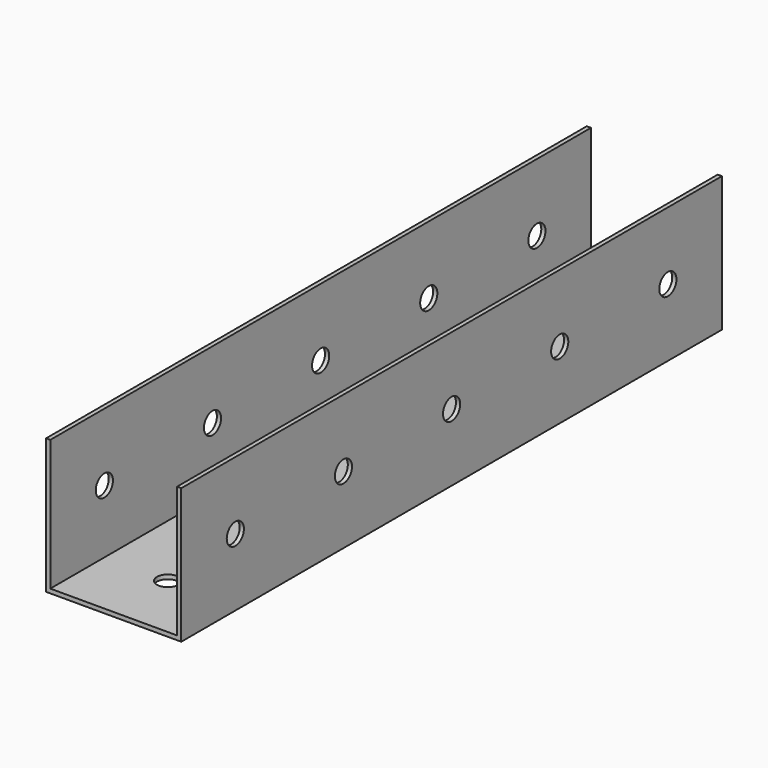
from build123d import *

# Parameters (mm, degrees)
F1_DEPTH = 160
F2_R     = 2.54
F3_DEPTH = 50.8
F4_R     = 2.54
F5_DEPTH = 25.4


with BuildPart() as f1:
    # F0 (on Front) → F1 (new body)
    with BuildSketch(Plane.XZ):
        Polygon((-15, 15.75), (-16, 15.75), (-16, -16.25), (16, -16.25), (16, 15.75), (15, 15.75), (15, -15.25), (-15, -15.25), align=None)
    extrude(amount=F1_DEPTH)

    # F2 (on face) → F3 (cut)
    with BuildSketch(Plane(origin=(-16, 0, 0), x_dir=(0, -1, 0), z_dir=(-1, 0, 0))):
        with Locations((16, -0.25)):
            Circle(F2_R)
        with Locations((48, -0.25)):
            Circle(F2_R)
        with Locations((80, -0.25)):
            Circle(F2_R)
        with Locations((112, -0.25)):
            Circle(F2_R)
        with Locations((144, -0.25)):
            Circle(F2_R)
    extrude(amount=-F3_DEPTH, mode=Mode.SUBTRACT)

    # F4 (on face) → F5 (cut)
    with BuildSketch(Plane(origin=(0, 0, -16.25), x_dir=(1, 0, 0), z_dir=(0, 0, -1))):
        with Locations((0, 144)):
            Circle(F4_R)
        with Locations((0, 112)):
            Circle(F4_R)
        with Locations((0, 80)):
            Circle(F4_R)
        with Locations((0, 48)):
            Circle(F4_R)
        with Locations((0, 16)):
            Circle(F4_R)
    extrude(amount=-F5_DEPTH, mode=Mode.SUBTRACT)


solid = f1.part
